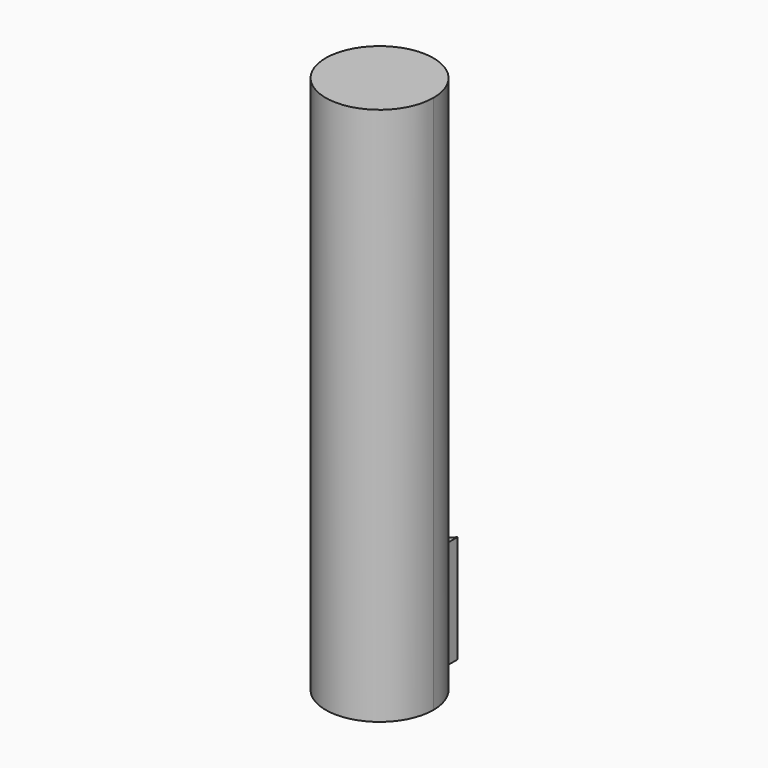
from build123d import *

# Parameters (mm, degrees)
F1_DEPTH = 10
F3_DEPTH = 40


with BuildPart() as f1:
    # F0 (on Top) → F1 (new body)
    with BuildSketch(Plane.XY):
        with BuildLine():
            ThreePointArc((-0.979788, 4.903062), (-3.170257, -3.866454), (5, 0))
            ThreePointArc((5, 0), (4.005404, 2.992781), (1.417304, 4.794919))
            Line((1.417304, 4.794919), (0, 0))
            Line((0, 0), (-0.979788, 4.903062))
        make_face()
        with BuildLine():
            Line((0, 0), (1.417304, 4.794919))
            ThreePointArc((1.417304, 4.794919), (0.225342, 4.99492), (-0.979788, 4.903062))
            Line((-0.979788, 4.903062), (0, 0))
        make_face()
        with BuildLine():
            ThreePointArc((-0.979788, 4.903062), (0.225342, 4.99492), (1.417304, 4.794919))
            Line((1.417304, 4.794919), (1.417304, 7.262519))
            Line((1.417304, 7.262519), (-0.979788, 4.903062))
        make_face()
    extrude(amount=F1_DEPTH)

    # F2 (on face) → F3 (join)
    with BuildSketch(Plane.XY.offset(10)):
        with BuildLine():
            ThreePointArc((-0.979788, 4.903062), (-3.170257, -3.866454), (5, 0))
            ThreePointArc((5, 0), (4.005404, 2.992781), (1.417304, 4.794919))
            ThreePointArc((1.417304, 4.794919), (0.225342, 4.99492), (-0.979788, 4.903062))
        make_face()
    extrude(amount=F3_DEPTH)


solid = f1.part
